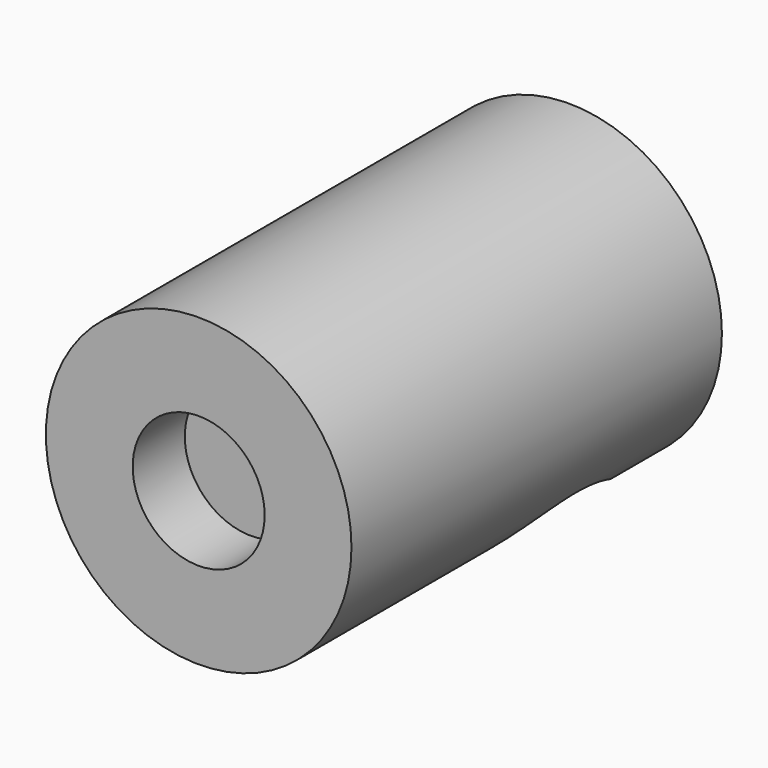
from build123d import *

# Parameters (mm, degrees)
F0_R          = 5.28
F1_DEPTH      = 16
F2_R          = 2.28
F3_DEPTH      = 2.25
F4_R          = 4.25
F5_DEPTH      = 25
F5_DEPTH_BACK = 3


with BuildPart() as f1:
    # F0 (on Front) → F1 (new body)
    with BuildSketch(Plane.XZ):
        Circle(F0_R)
    extrude(amount=F1_DEPTH)

    # F2 (on face) → F3 (cut)
    with BuildSketch(Plane.XZ.offset(16)):
        Circle(F2_R)
    extrude(amount=-F3_DEPTH, mode=Mode.SUBTRACT)

    # F4 (on Top) → F5 (cut, two sides)
    with BuildSketch(Plane.XY) as f5_sk:
        with Locations((0, -5)):
            Circle(F4_R)
    extrude(amount=-F5_DEPTH, mode=Mode.SUBTRACT)
    extrude(f5_sk.sketch, amount=F5_DEPTH_BACK, mode=Mode.SUBTRACT)


solid = f1.part
